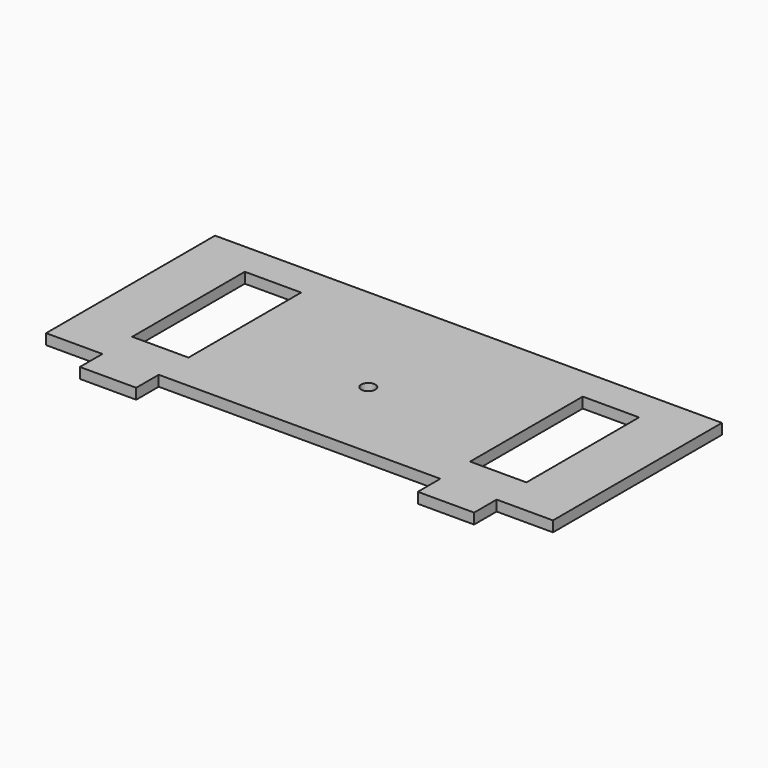
from build123d import *

# Parameters (mm, degrees)
F0_W     = 101.6
F0_H     = 254
F0_H_2   = 50.8
F1_DEPTH = 19.05


with BuildPart() as f1:
    # F0 (on Top) → F1 (new body)
    with BuildSketch(Plane.XY):
        with BuildLine():
            ThreePointArc((12.70004, -50.177005), (-8.980216, -41.196749), (4e-05, -62.877005))
            ThreePointArc((4e-05, -62.877005), (8.980296, -59.157261), (12.70004, -50.177005))
        make_face()
        Polygon((457.2, 175.795518), (-457.2, 175.795518), (-457.2, -205.204482), (-355.6, -205.204482), (-254, -205.204482), (4e-05, -205.204482), (254, -205.204482), (355.6, -205.204482), (457.2, -205.204482), align=None)
        with BuildLine():
            ThreePointArc((12.70004, -50.177005), (8.980296, -59.157261), (4e-05, -62.877005))
            ThreePointArc((4e-05, -62.877005), (-8.980216, -41.196749), (12.70004, -50.177005))
        make_face(mode=Mode.SUBTRACT)
        with Locations((-304.8, -11.045669)):
            Rectangle(F0_W, F0_H, mode=Mode.SUBTRACT)
        with Locations((304.8, -11.045669)):
            Rectangle(F0_W, F0_H, mode=Mode.SUBTRACT)
        with Locations((-304.8, -230.604482)):
            Rectangle(F0_W, F0_H_2)
        with Locations((304.8, -230.604482)):
            Rectangle(F0_W, F0_H_2)
    extrude(amount=F1_DEPTH)


solid = f1.part
